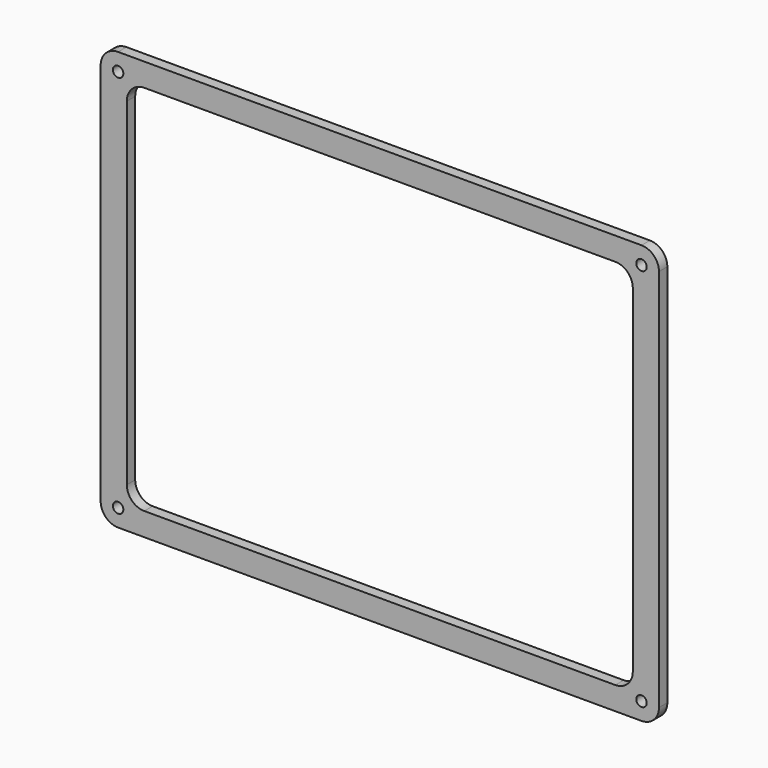
from build123d import *

# Parameters (mm, degrees)
F1_DEPTH = 3
F2_R     = 1.5
F3_DEPTH = 25
F5_DEPTH = 3


with BuildPart() as f1:
    # F0 (on Front) → F1 (new body)
    with BuildSketch(Plane.XZ):
        with BuildLine():
            Line((-75, -60), (75, -60))
            ThreePointArc((75, -60), (78.535534, -58.535534), (80, -55))
            Line((80, -55), (80, 55))
            ThreePointArc((80, 55), (78.535534, 58.535534), (75, 60))
            Line((75, 60), (-75, 60))
            ThreePointArc((-75, 60), (-78.535534, 58.535534), (-80, 55))
            Line((-80, 55), (-80, -55))
            ThreePointArc((-80, -55), (-78.535534, -58.535534), (-75, -60))
        make_face()
    extrude(amount=F1_DEPTH)

    # F2 (on Front) → F3 (cut)
    with BuildSketch(Plane.XZ):
        with Locations((-75, 55)):
            Circle(F2_R)
        with Locations((75, 55)):
            Circle(F2_R)
        with Locations((75, -55)):
            Circle(F2_R)
        with Locations((-75, -55)):
            Circle(F2_R)
    extrude(amount=F3_DEPTH, mode=Mode.SUBTRACT)

    # F4 (on face) → F5 (cut)
    with BuildSketch(Plane.XZ.offset(3)):
        with BuildLine():
            ThreePointArc((72.5, 48.385622), (71.035534, 51.921156), (67.5, 53.385622))
            Line((67.5, 53.385622), (-67.5, 53.385622))
            ThreePointArc((-67.5, 53.385622), (-71.035534, 51.921156), (-72.5, 48.385622))
            Line((-72.5, 48.385622), (-72.5, -48.385622))
            ThreePointArc((-72.5, -48.385622), (-71.035534, -51.921156), (-67.5, -53.385622))
            Line((-67.5, -53.385622), (67.5, -53.385622))
            ThreePointArc((67.5, -53.385622), (71.035534, -51.921156), (72.5, -48.385622))
            Line((72.5, -48.385622), (72.5, 48.385622))
        make_face()
    extrude(amount=-F5_DEPTH, mode=Mode.SUBTRACT)


solid = f1.part
